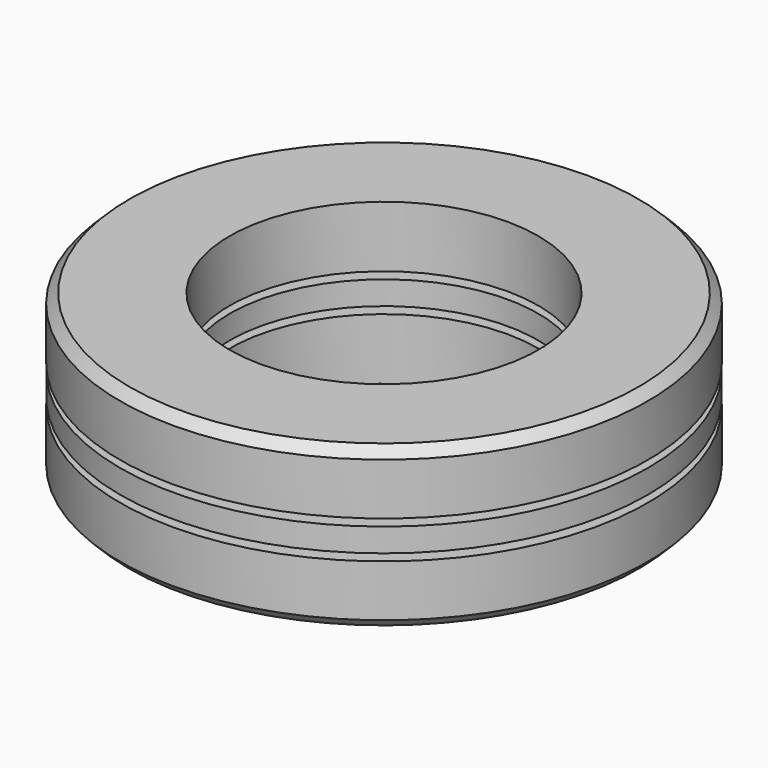
from build123d import *

# Parameters (mm, degrees)
F0_R     = 22.225
F0_R_2   = 12.99765625
F2_DEPTH = 0.9921875
F3_COUNT = 13
F7_SIZE  = 0.79375


with BuildPart() as f1:
    # F0 (on Top) → F1 (revolve)
    with BuildSketch(Plane.XY):
        with BuildLine():
            Line((0, 14.2875), (0, 20.6375))
            ThreePointArc((0, 20.6375), (-3.175, 17.4625), (0, 14.2875))
        make_face()
    revolve(axis=Axis((0, 17.0771591365, 0), (0, 1, 0)))


with BuildPart() as f2:
    # F0 (on Top) → F2 (new body, symmetric)
    with BuildSketch(Plane.XY):
        Circle(F0_R)
        with BuildLine():
            ThreePointArc((0, 14.2875), (-3.175, 17.4625), (0, 20.6375))
            Line((0, 20.6375), (0, 14.2875))
        make_face(mode=Mode.SUBTRACT)
        Circle(F0_R_2, mode=Mode.SUBTRACT)
        with BuildLine():
            Line((0, 14.2875), (0, 20.6375))
            ThreePointArc((0, 20.6375), (-3.175, 17.4625), (0, 14.2875))
        make_face()
    extrude(amount=F2_DEPTH, both=True)


with BuildPart() as f3_1:
    # F3: instance of F1
    add(f1.part.rotate(Axis((0, 0, 0), (0, 0, 1)), 1 * 360 / F3_COUNT))


with BuildPart() as f3_2:
    # F3: instance of F1
    add(f1.part.rotate(Axis((0, 0, 0), (0, 0, 1)), 2 * 360 / F3_COUNT))


with BuildPart() as f3_3:
    # F3: instance of F1
    add(f1.part.rotate(Axis((0, 0, 0), (0, 0, 1)), 3 * 360 / F3_COUNT))


with BuildPart() as f3_4:
    # F3: instance of F1
    add(f1.part.rotate(Axis((0, 0, 0), (0, 0, 1)), 4 * 360 / F3_COUNT))


with BuildPart() as f3_5:
    # F3: instance of F1
    add(f1.part.rotate(Axis((0, 0, 0), (0, 0, 1)), 5 * 360 / F3_COUNT))


with BuildPart() as f3_6:
    # F3: instance of F1
    add(f1.part.rotate(Axis((0, 0, 0), (0, 0, 1)), 6 * 360 / F3_COUNT))


with BuildPart() as f3_7:
    # F3: instance of F1
    add(f1.part.rotate(Axis((0, 0, 0), (0, 0, 1)), 7 * 360 / F3_COUNT))


with BuildPart() as f3_8:
    # F3: instance of F1
    add(f1.part.rotate(Axis((0, 0, 0), (0, 0, 1)), 8 * 360 / F3_COUNT))


with BuildPart() as f3_9:
    # F3: instance of F1
    add(f1.part.rotate(Axis((0, 0, 0), (0, 0, 1)), 9 * 360 / F3_COUNT))


with BuildPart() as f3_10:
    # F3: instance of F1
    add(f1.part.rotate(Axis((0, 0, 0), (0, 0, 1)), 10 * 360 / F3_COUNT))


with BuildPart() as f3_11:
    # F3: instance of F1
    add(f1.part.rotate(Axis((0, 0, 0), (0, 0, 1)), 11 * 360 / F3_COUNT))


with BuildPart() as f3_12:
    # F3: instance of F1
    add(f1.part.rotate(Axis((0, 0, 0), (0, 0, 1)), 12 * 360 / F3_COUNT))


with BuildPart() as f3_1_1:
    add(f3_1.part)

    # F4: union F2, F1, F3_3, F3_4, F3_2, F3_5, F3_6, F3_7, F3_8, F3_9, F3_10, F3_11, F3_12
    add(f2.part)
    add(f1.part)
    add(f3_3.part)
    add(f3_4.part)
    add(f3_2.part)
    add(f3_5.part)
    add(f3_6.part)
    add(f3_7.part)
    add(f3_8.part)
    add(f3_9.part)
    add(f3_10.part)
    add(f3_11.part)
    add(f3_12.part)

    # F5 (on Right) → F6 (revolve)
    with BuildSketch(Plane.YZ):
        with BuildLine():
            Line((22.225, -1.5875), (20.212130657, -1.5875))
            ThreePointArc((20.212130657, -1.5875), (17.4625, -3.175), (14.712869343, -1.5875))
            Line((14.712869343, -1.5875), (12.99765625, -1.5875))
            Line((12.99765625, -1.5875), (12.99765625, -6.746875))
            Line((12.99765625, -6.746875), (22.225, -6.746875))
            Line((22.225, -6.746875), (22.225, -1.5875))
        make_face()
        with BuildLine():
            Line((12.99765625, 1.5875), (14.712869343, 1.5875))
            ThreePointArc((14.712869343, 1.5875), (17.4625, 3.175), (20.212130657, 1.5875))
            Line((20.212130657, 1.5875), (22.225, 1.5875))
            Line((22.225, 1.5875), (22.225, 6.746875))
            Line((22.225, 6.746875), (12.99765625, 6.746875))
            Line((12.99765625, 6.746875), (12.99765625, 1.5875))
        make_face()
    revolve(axis=Axis((0, 0, -5.6924847886), (0, 0, -1)))

    # F7
    f7_edges = [f3_1_1.edges().sort_by_distance(p)[0] for p in [
        (0, -22.225, -6.746875),
        (0, -22.225, 6.746875),
    ]]
    chamfer(f7_edges, length=F7_SIZE)


solid = f3_1_1.part
